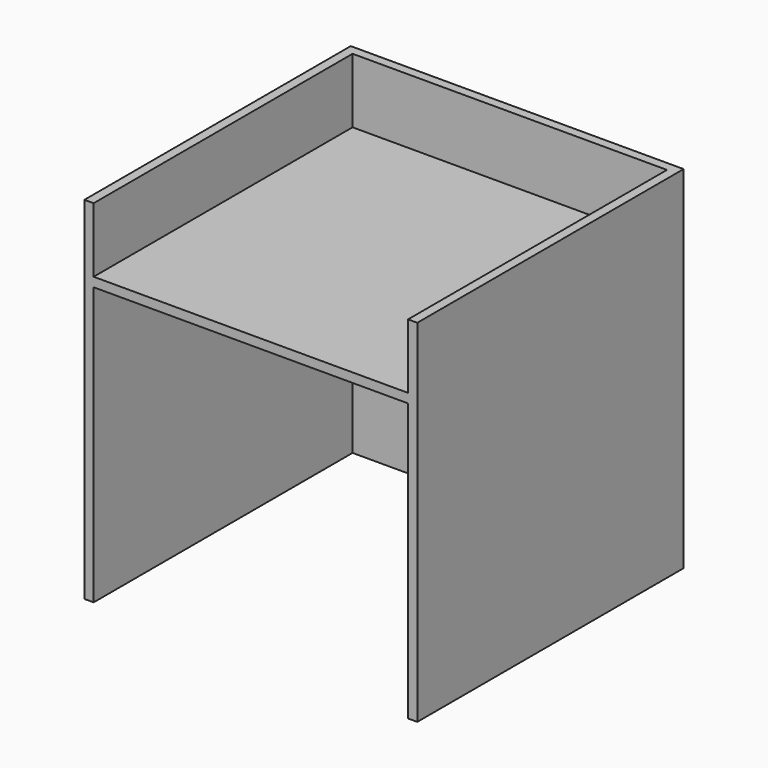
from build123d import *

# Parameters (mm, degrees)
F1_DEPTH = 914.4
F2_W     = 889
F2_H     = 25.4
F3_DEPTH = 889
F4_DEPTH = 50.8


with BuildPart() as f1:
    # F0 (on Top) → F1 (new body)
    with BuildSketch(Plane.XY):
        Polygon((889, 914.4), (0, 914.4), (0, 25.4), (0, 0), (25.4, 0), (25.4, 25.4), (25.4, 889), (889, 889), (889, 25.4), (889, 0), (914.4, 0), (914.4, 889), (914.4, 914.4), align=None)
    extrude(amount=F1_DEPTH)

    # F2 (on face) → F3 (join)
    with BuildSketch(Plane(origin=(889, 0, 0), x_dir=(0, -1, 0), z_dir=(-1, 0, 0))):
        with Locations((-444.5, 774.7)):
            Rectangle(F2_W, F2_H)
    extrude(amount=F3_DEPTH)

    # F4 (add): a face of the model
    f4_faces = [f1.faces().sort_by_distance(p)[0] for p in [
        (457.2, 901.4684311857, 914.4),
    ]]
    extrude(f4_faces, amount=F4_DEPTH)


solid = f1.part
